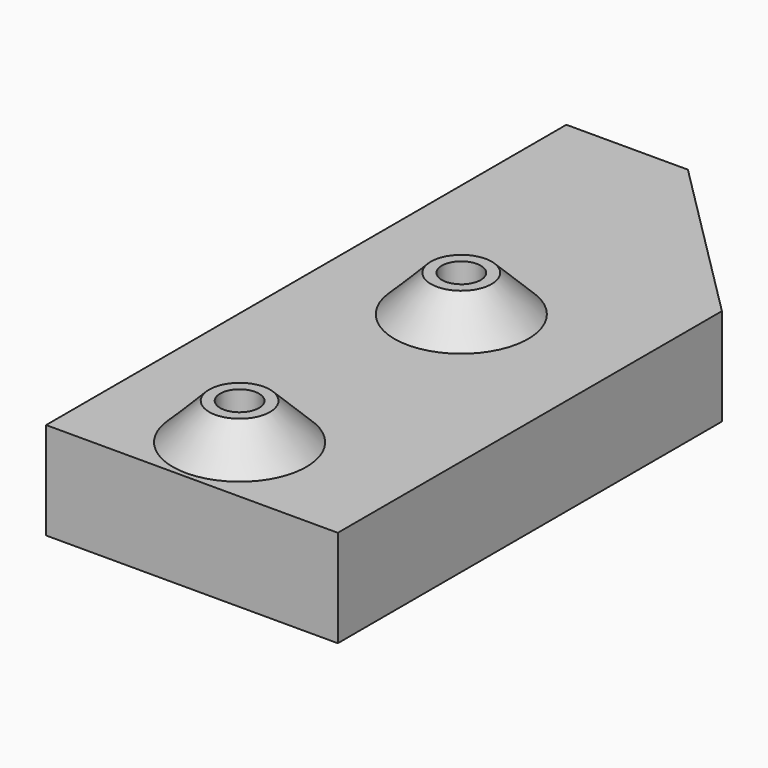
from build123d import *

# Parameters (mm, degrees)
CYLINDER082_R     = 0.8
CYLINDER082_DEPTH = 14.5
CYLINDER081_R     = 0.8
CYLINDER081_DEPTH = 14.5
BOX044_W          = 12
BOX044_H          = 26.75
BOX044_DEPTH      = 4
CHAMFER001_SIZE   = 7


with BuildPart() as cylinder134:
    # Cylinder082 → Cylinder082 (new body)
    with BuildSketch(Plane(origin=(-43.6, -13.8, -15), x_dir=(1, 0, 0), z_dir=(0, 0, 1))):
        Circle(CYLINDER082_R)
    extrude(amount=CYLINDER082_DEPTH)


with BuildPart() as fusion116:
    # Cylinder081 → Cylinder081 (new body)
    with BuildSketch(Plane(origin=(-43.6, -2.4, -15), x_dir=(1, 0, 0), z_dir=(0, 0, 1))):
        Circle(CYLINDER081_R)
    extrude(amount=CYLINDER081_DEPTH)

    # Fusion116: union Cylinder134
    add(cylinder134.part)


with BuildPart() as cone003:
    # Cone003 → Cone003 (revolve)
    with BuildSketch(Plane(origin=(-43.6, -13.8, -10), x_dir=(1, 0, 0), z_dir=(0, -1, 0))):
        Polygon((0, 0), (2.75, 0), (1.25, 1.5), (0, 1.5), align=None)
    revolve(axis=Axis((-43.6, -13.8, -10), (0, 0, 1)))


with BuildPart() as fusion114:
    # Cone002 → Cone002 (revolve)
    with BuildSketch(Plane(origin=(-43.6, -2.4, -10), x_dir=(1, 0, 0), z_dir=(0, -1, 0))):
        Polygon((0, 0), (2.75, 0), (1.25, 1.5), (0, 1.5), align=None)
    revolve(axis=Axis((-43.6, -2.4, -10), (0, 0, 1)))

    # Fusion114: union Cone003
    add(cone003.part)


with BuildPart() as cut045028:
    # Box044 → Box044 (new body)
    with BuildSketch(Plane(origin=(-50, -16.75, -14), x_dir=(1, 0, 0), z_dir=(0, 0, 1))):
        with Locations((6, 13.375)):
            Rectangle(BOX044_W, BOX044_H)
    extrude(amount=BOX044_DEPTH)

    # Chamfer001
    chamfer001_edges = [cut045028.edges().sort_by_distance(p)[0] for p in [
        (-50, 10, -12),
    ]]
    chamfer(chamfer001_edges, length=CHAMFER001_SIZE)

    # Fusion115: union Fusion114
    add(fusion114.part)

    # Cut045028: cut Fusion116
    add(fusion116.part, mode=Mode.SUBTRACT)


with BuildPart() as part_mirroring005:
    # Part__Mirroring005: instance of Cut045028
    add(cut045028.part.mirror(Plane(origin=(0, 0, 0), x_dir=(0, -1, 0), z_dir=(1, 0, 0))))


with BuildPart() as part_mirroring005_1:
    # Part__Mirroring005 placement: moved
    add(part_mirroring005.part.moved(Location((27, 0, 0))))


solid = part_mirroring005_1.part
